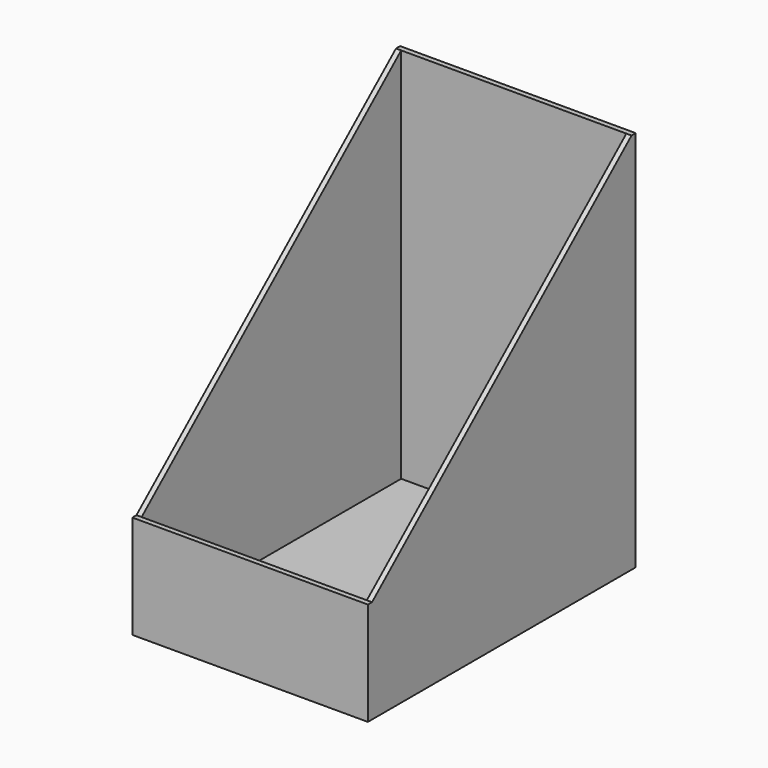
from build123d import *

# Parameters (mm, degrees)
F0_W     = 114
F0_H     = 162
F1_DEPTH = 185
F3_DEPTH = 114
F5_W     = 109
F5_H     = 157
F6_DEPTH = 182.501


with BuildPart() as f1:
    # F0 (on Top) → F1 (new body)
    with BuildSketch(Plane.XY):
        with Locations((-57, -81)):
            Rectangle(F0_W, F0_H)
    extrude(amount=F1_DEPTH)

    # F2 (on Right) → F3 (cut, through all)
    with BuildSketch(Plane.YZ):
        Polygon((-162, 185), (-162, 50), (-159.5, 50), (-2.5, 185), align=None)
    extrude(amount=-F3_DEPTH, mode=Mode.SUBTRACT)

    # F5 (on offset) → F6 (cut, through all)
    with BuildSketch(Plane.XY.offset(2.5)):
        with Locations((-57, -81)):
            Rectangle(F5_W, F5_H)
    extrude(amount=F6_DEPTH, mode=Mode.SUBTRACT)


solid = f1.part
